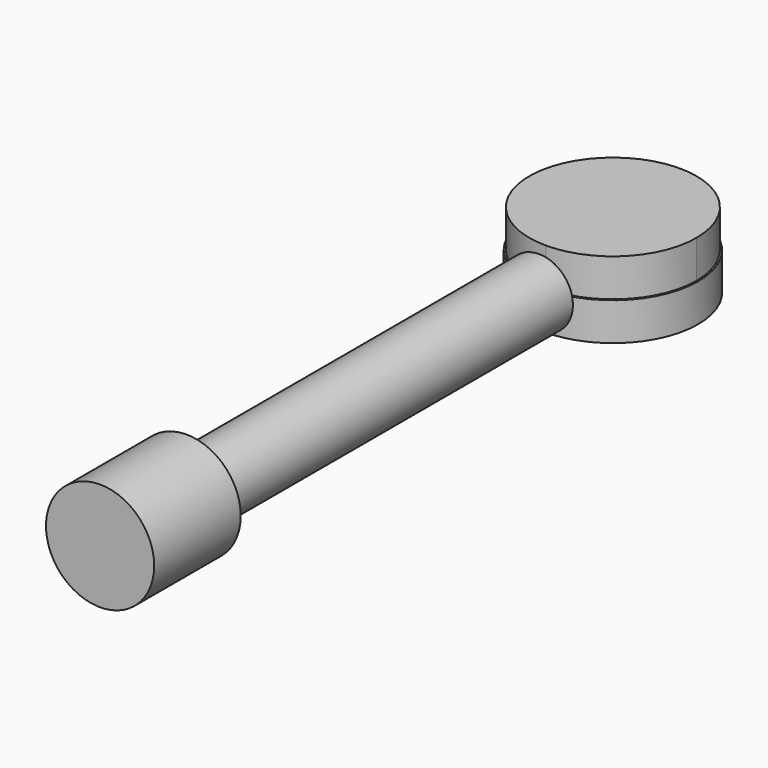
from build123d import *

# Parameters (mm, degrees)
F0_R      = 0.86
F1_DEPTH  = 11.2
F2_R      = 1.375
F2_R_2    = 0.86
F1_FACE_R = 0.86
F3_DEPTH  = 2.75
F5_DEPTH  = 0.96
F6_R      = 2.167722
F7_DEPTH  = 0.96


with BuildPart() as f1:
    # F0 (on Front) → F1 (new body)
    with BuildSketch(Plane.XZ):
        Circle(F0_R)
    extrude(amount=F1_DEPTH)

    # F2 (on face) + F1_face (on face) → F3 (join)
    with BuildSketch(Plane.XZ.offset(11.2)):
        Circle(F2_R)
        Circle(F2_R_2, mode=Mode.SUBTRACT)
        Circle(F2_R_2)
    with BuildSketch(Plane.XZ.offset(11.2)):
        Circle(F1_FACE_R)
    extrude(amount=F3_DEPTH)


with BuildPart() as f5:
    # F4 (on Top) → F5 (new body)
    with BuildSketch(Plane.XY):
        with BuildLine():
            ThreePointArc((0, 0.220558), (1.502602, 0.842956), (2.125, 2.345558))
            ThreePointArc((2.125, 2.345558), (-1.502602, 3.84816), (0, 0.220558))
        make_face()
    extrude(amount=F5_DEPTH)

    # F6 (on face) → F7 (join)
    with BuildSketch(Plane(origin=(0, 0, 0), x_dir=(1, 0, 0), z_dir=(0, 0, -1))):
        with Locations((0, -2.345558)):
            Circle(F6_R)
    extrude(amount=F7_DEPTH)


solid = Compound([f1.part, f5.part])
